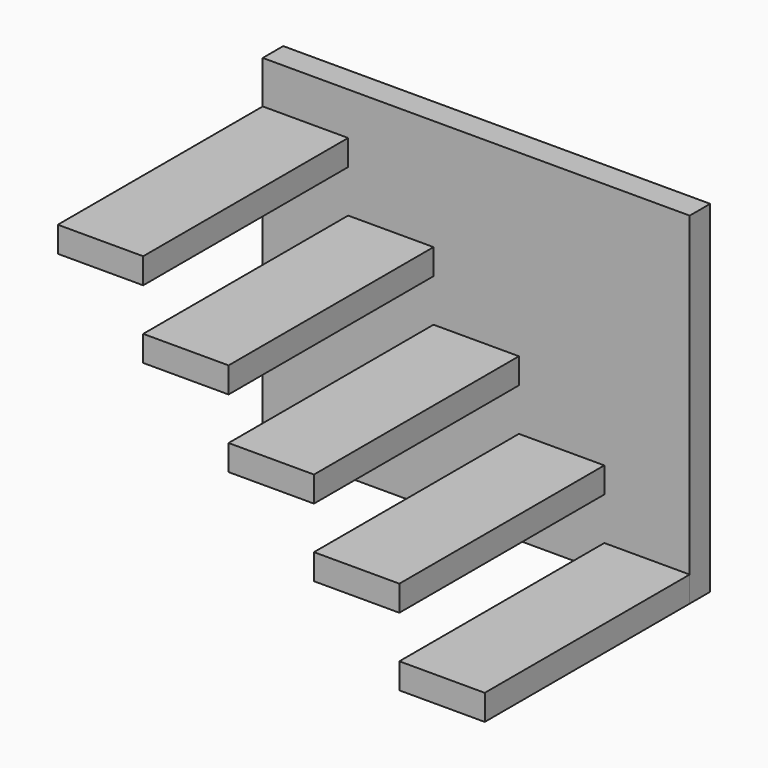
from build123d import *

# Parameters (mm, degrees)
BOX_W        = 10
BOX_H        = 30
BOX_DEPTH    = 3
BOX001_W     = 10
BOX001_H     = 30
BOX001_DEPTH = 3
BOX002_W     = 10
BOX002_H     = 30
BOX002_DEPTH = 3
BOX003_W     = 10
BOX003_H     = 30
BOX003_DEPTH = 3
BOX004_W     = 10
BOX004_H     = 30
BOX004_DEPTH = 3
BOX005_W     = 50
BOX005_H     = 3
BOX005_DEPTH = 40
BOX006_W     = 10
BOX006_H     = 30
BOX006_DEPTH = 3


with BuildPart() as cubo:
    # Box → Box (new body)
    with BuildSketch(Plane(origin=(-30, 0, 24), x_dir=(1, 0, 0), z_dir=(0, 0, 1))):
        with Locations((5, 15)):
            Rectangle(BOX_W, BOX_H)
    extrude(amount=BOX_DEPTH)


with BuildPart() as cubo001:
    # Box001 → Box001 (new body)
    with BuildSketch(Plane(origin=(-20, 0, 16), x_dir=(1, 0, 0), z_dir=(0, 0, 1))):
        with Locations((5, 15)):
            Rectangle(BOX001_W, BOX001_H)
    extrude(amount=BOX001_DEPTH)


with BuildPart() as cubo002:
    # Box002 → Box002 (new body)
    with BuildSketch(Plane(origin=(-10, 0, 8), x_dir=(1, 0, 0), z_dir=(0, 0, 1))):
        with Locations((5, 15)):
            Rectangle(BOX002_W, BOX002_H)
    extrude(amount=BOX002_DEPTH)


with BuildPart() as cubo003:
    # Box003 → Box003 (new body)
    with BuildSketch(Plane.XY):
        with Locations((5, 15)):
            Rectangle(BOX003_W, BOX003_H)
    extrude(amount=BOX003_DEPTH)


with BuildPart() as cubo004:
    # Box004 → Box004 (new body)
    with BuildSketch(Plane.XY):
        with Locations((5, 15)):
            Rectangle(BOX004_W, BOX004_H)
    extrude(amount=BOX004_DEPTH)


with BuildPart() as cubo005:
    # Box005 → Box005 (new body)
    with BuildSketch(Plane(origin=(-40, 30, 0), x_dir=(1, 0, 0), z_dir=(0, 0, 1))):
        with Locations((25, 1.5)):
            Rectangle(BOX005_W, BOX005_H)
    extrude(amount=BOX005_DEPTH)


with BuildPart() as cubo006:
    # Box006 → Box006 (new body)
    with BuildSketch(Plane(origin=(-40, 0, 32), x_dir=(1, 0, 0), z_dir=(0, 0, 1))):
        with Locations((5, 15)):
            Rectangle(BOX006_W, BOX006_H)
    extrude(amount=BOX006_DEPTH)


solid = Compound([cubo.part, cubo001.part, cubo002.part, cubo003.part, cubo004.part, cubo005.part, cubo006.part])
